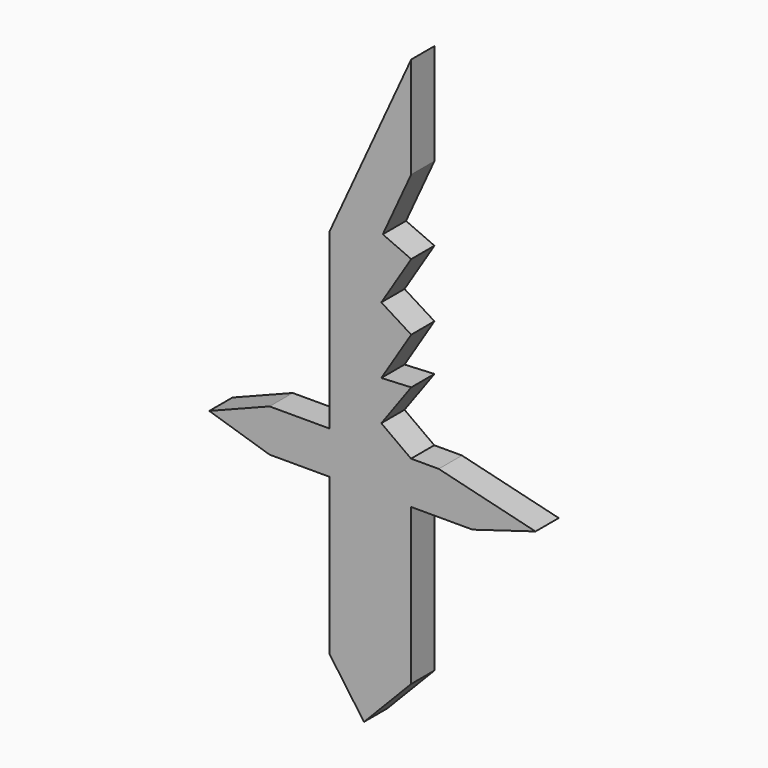
from build123d import *

# Parameters (mm, degrees)
F1_DEPTH = 5.715


with BuildPart() as f1:
    # F0 (on Front) → F1 (new body)
    with BuildSketch(Plane.XZ):
        Polygon((-9.904526, 23.375541), (-9.904526, 43.280635), (-25.999382, 8.202187), (-25.999382, -25.844624), (-9.936704, -25.844624), (-15.785338, -21.608118), (-9.904526, -13.489466), (-15.785338, -13.773482), (-9.904526, -4.36581), (-15.785338, -0.689667), (-9.904526, 8.718005), (-15.493959, 11.193473), align=None)
        Polygon((-9.936704, -25.844624), (-25.999382, -25.844624), (-37.761007, -25.844624), (-49.625799, -30.48737), (-37.761007, -34.201566), (-25.999382, -34.201566), (-9.904526, -34.201566), (2.166617, -34.201566), (14.547272, -30.48737), (-4.487994, -25.844624), (-9.904526, -25.844624), (-9.904526, -25.867933), align=None)
        Polygon((-9.904526, -25.844624), (-9.936704, -25.844624), (-9.904526, -25.867933), align=None)
        Polygon((-9.904526, -34.201566), (-25.999382, -34.201566), (-25.999382, -64.843699), (-19.190019, -74.438706), (-9.904526, -64.843699), align=None)
    extrude(amount=F1_DEPTH)


solid = f1.part
